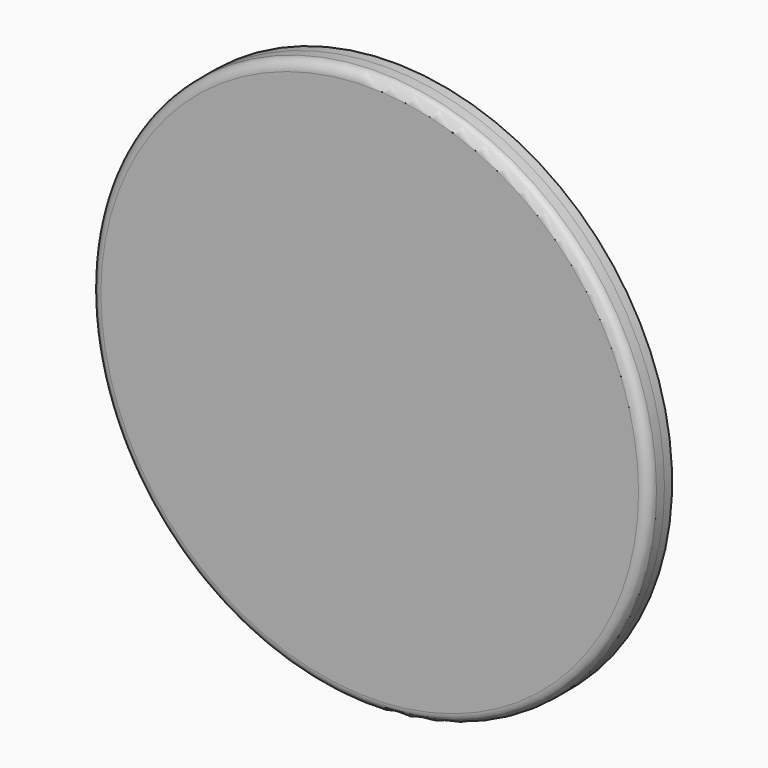
from build123d import *

# Parameters (mm, degrees)
F0_R     = 22.225
F1_DEPTH = 1.5875
F2_R     = 0.79375
F3_R     = 22.225
F3_R_2   = 7.9375
F4_DEPTH = 0.762


with BuildPart() as f1:
    # F0 (on Front) → F1 (new body)
    with BuildSketch(Plane.XZ):
        Circle(F0_R)
    extrude(amount=F1_DEPTH)

    # F2
    f2_edges = [f1.edges().sort_by_distance(p)[0] for p in [
        (-22.225, -1.5875, 0),
    ]]
    fillet(f2_edges, radius=F2_R)

    # F3 (on face) → F4 (join)
    with BuildSketch(Plane(origin=(0, 0, 0), x_dir=(-1, 0, 0), z_dir=(0, 1, 0))):
        Circle(F3_R)
        Circle(F3_R_2, mode=Mode.SUBTRACT)
    extrude(amount=F4_DEPTH)


solid = f1.part
